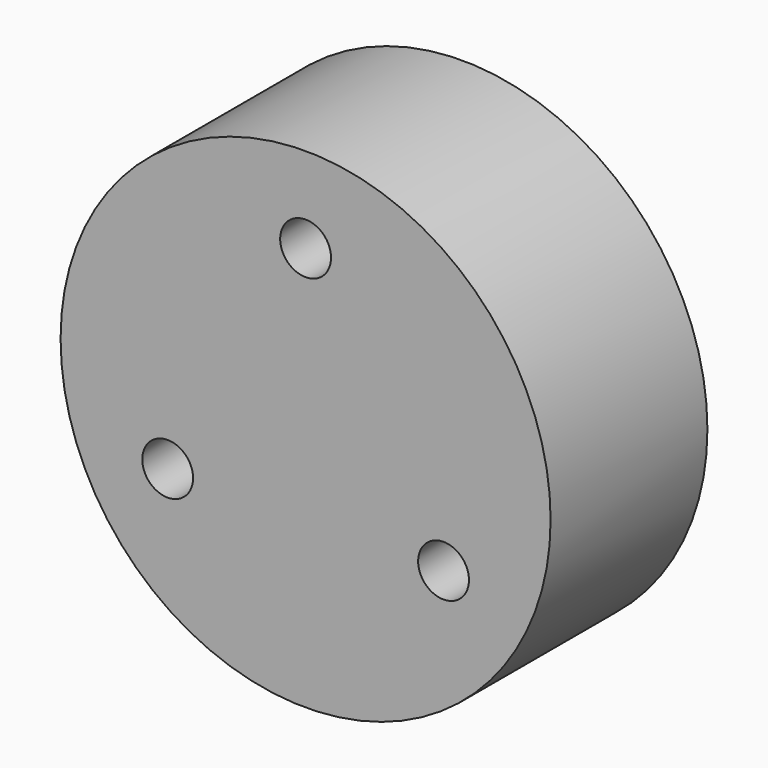
from build123d import *

# Parameters (mm, degrees)
F0_R     = 33.75
F1_DEPTH = 27
F2_R     = 3.5
F3_DEPTH = 27


with BuildPart() as f1:
    # F0 (on Front) → F1 (new body)
    with BuildSketch(Plane.XZ):
        Circle(F0_R)
    extrude(amount=-F1_DEPTH)

    # F2 (on face) → F3 (cut)
    with BuildSketch(Plane.XZ):
        with Locations((0, 21.94)):
            Circle(F2_R)
        with Locations((-19.000597, -10.97)):
            Circle(F2_R)
        with Locations((19.000597, -10.97)):
            Circle(F2_R)
    extrude(amount=-F3_DEPTH, mode=Mode.SUBTRACT)


solid = f1.part
